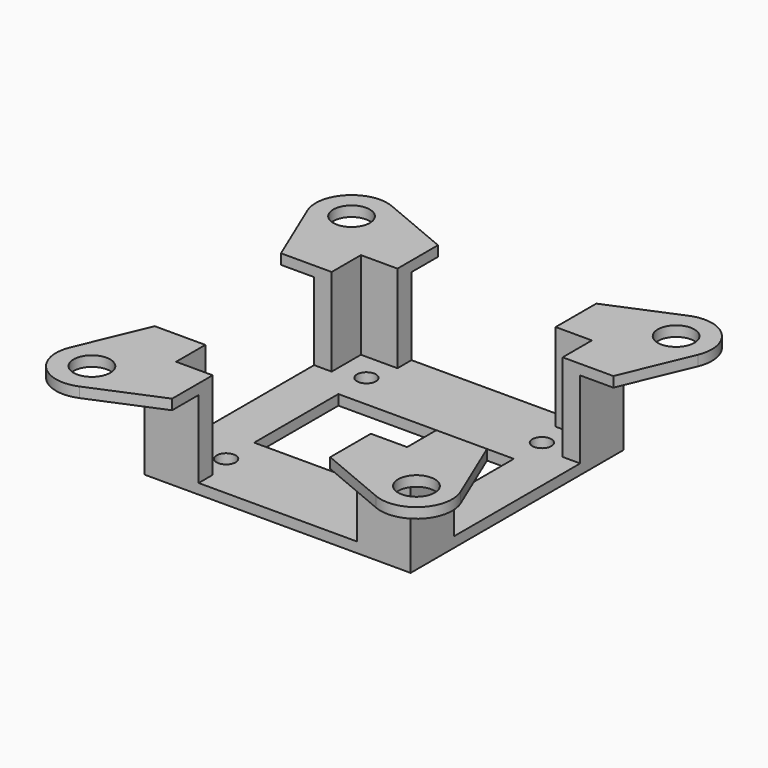
from build123d import *

# Parameters (mm, degrees)
F0_W      = 39.5
F0_H      = 39.5
F0_R      = 1.625
F0_W_2    = 30
F0_H_2    = 18
F1_DEPTH  = 1.75
F2_W      = 45.5
F2_H      = 45.5
F2_W_2    = 39.5
F2_H_2    = 39.5
F3_DEPTH  = 15
F4_R      = 3.125
F4_W      = 39.5
F4_H      = 39.5
F5_DEPTH  = 1.75
F6_W      = 27.05052
F6_H      = 15
F7_DEPTH  = 25
F8_DEPTH  = 56.626
F9_W      = 27
F9_H      = 15
F10_DEPTH = 11.126
F11_DEPTH = 56.626


with BuildPart() as f1:
    # F0 (on Top) → F1 (new body)
    with BuildSketch(Plane.XY):
        Rectangle(F0_W, F0_H)
        with Locations((-15, -15)):
            Circle(F0_R, mode=Mode.SUBTRACT)
        with Locations((15, -15)):
            Circle(F0_R, mode=Mode.SUBTRACT)
        with Locations((-15, 15)):
            Circle(F0_R, mode=Mode.SUBTRACT)
        Rectangle(F0_W_2, F0_H_2, mode=Mode.SUBTRACT)
        with Locations((15, 15)):
            Circle(F0_R, mode=Mode.SUBTRACT)
    extrude(amount=F1_DEPTH)

    # F2 (on Top) → F3 (join)
    with BuildSketch(Plane.XY):
        Rectangle(F2_W, F2_H)
        Rectangle(F2_W_2, F2_H_2, mode=Mode.SUBTRACT)
    extrude(amount=F3_DEPTH)

    # F4 (on face) → F5 (join)
    with BuildSketch(Plane.XY.offset(15)):
        with BuildLine():
            Line((0, 22.75), (-25.380415, 33.39807))
            ThreePointArc((-25.380415, 33.39807), (-32.081029, 32.081029), (-33.39807, 25.380415))
            Line((-33.39807, 25.380415), (-22.75, 0))
            Line((-22.75, 0), (-33.39807, -25.380415))
            ThreePointArc((-33.39807, -25.380415), (-32.081029, -32.081029), (-25.380415, -33.39807))
            Line((-25.380415, -33.39807), (0, -22.75))
            Line((0, -22.75), (25.380415, -33.39807))
            ThreePointArc((25.380415, -33.39807), (32.081029, -32.081029), (33.39807, -25.380415))
            Line((33.39807, -25.380415), (22.75, 0))
            Line((22.75, 0), (33.39807, 25.380415))
            ThreePointArc((33.39807, 25.380415), (32.081029, 32.081029), (25.380415, 33.39807))
            Line((25.380415, 33.39807), (0, 22.75))
        make_face()
        with Locations((-27.75, -27.75)):
            Circle(F4_R, mode=Mode.SUBTRACT)
        with Locations((27.75, -27.75)):
            Circle(F4_R, mode=Mode.SUBTRACT)
        Rectangle(F4_W, F4_H, mode=Mode.SUBTRACT)
        with Locations((-27.75, 27.75)):
            Circle(F4_R, mode=Mode.SUBTRACT)
        with Locations((27.75, 27.75)):
            Circle(F4_R, mode=Mode.SUBTRACT)
    extrude(amount=F5_DEPTH)

    # F6 (on face) → F7 (cut)
    with BuildSketch(Plane.XZ.offset(22.75)):
        with Locations((0.02526, 9.25)):
            Rectangle(F6_W, F6_H)
    extrude(amount=F7_DEPTH, mode=Mode.SUBTRACT)

    # F6 (on face) → F8 (cut, through all)
    with BuildSketch(Plane.XZ.offset(22.75)):
        with Locations((0.02526, 9.25)):
            Rectangle(F6_W, F6_H)
    extrude(amount=-F8_DEPTH, mode=Mode.SUBTRACT)

    # F9 (on face) → F10 (cut, through all)
    with BuildSketch(Plane.YZ.offset(22.75)):
        with Locations((0, 9.25)):
            Rectangle(F9_W, F9_H)
    extrude(amount=F10_DEPTH, mode=Mode.SUBTRACT)

    # F9 (on face) → F11 (cut, through all)
    with BuildSketch(Plane.YZ.offset(22.75)):
        with Locations((0, 9.25)):
            Rectangle(F9_W, F9_H)
    extrude(amount=-F11_DEPTH, mode=Mode.SUBTRACT)


solid = f1.part
